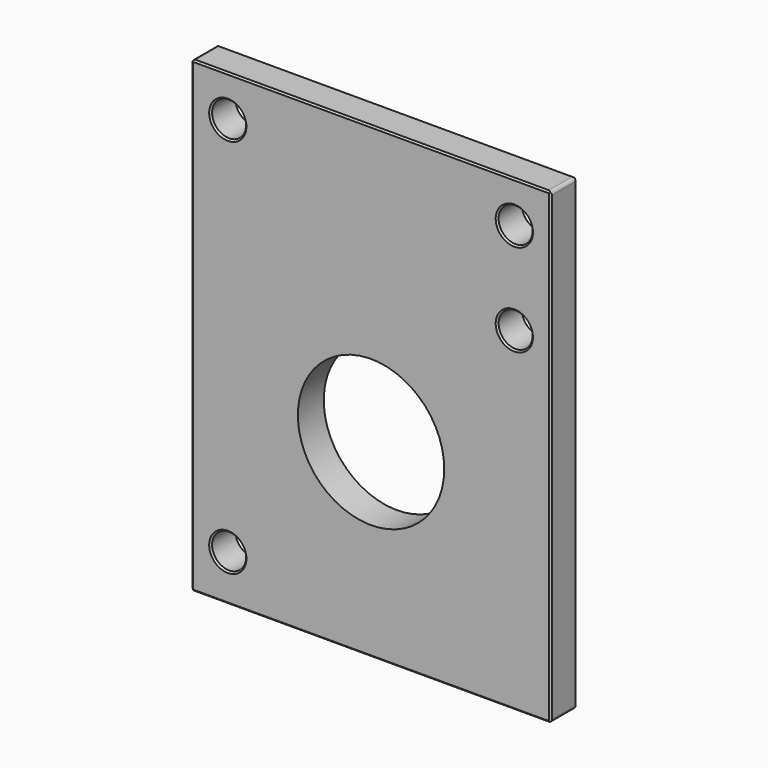
from build123d import *

# Parameters (mm, degrees)
F0_W     = 111
F0_H     = 144.5
F0_R     = 5.25
F0_R_2   = 22.604298
F1_DEPTH = 10
F2_SIZE  = 0.5
F3_R     = 1
F4_SIZE  = 0.5


with BuildPart() as f1:
    # F0 (on Front) → F1 (new body)
    with BuildSketch(Plane.XZ):
        Rectangle(F0_W, F0_H)
        with Locations((-44.25, -58)):
            Circle(F0_R, mode=Mode.SUBTRACT)
        with Locations((0, -13.75)):
            Circle(F0_R_2, mode=Mode.SUBTRACT)
        with Locations((-44.25, 59.5)):
            Circle(F0_R, mode=Mode.SUBTRACT)
        with Locations((44.25, 31)):
            Circle(F0_R, mode=Mode.SUBTRACT)
        with Locations((44.25, 59.5)):
            Circle(F0_R, mode=Mode.SUBTRACT)
    extrude(amount=F1_DEPTH)

    # F2
    f2_edges = [f1.edges().sort_by_distance(p)[0] for p in [
        (0, -10, -72.25),
        (-55.5, -10, 0),
        (0, -10, 72.25),
        (55.5, -10, 0),
        (0, 0, -72.25),
        (55.5, 0, 0),
        (-55.5, 0, 0),
        (0, 0, 72.25),
    ]]
    chamfer(f2_edges, length=F2_SIZE)

    # F3
    f3_edges = [f1.edges().sort_by_distance(p)[0] for p in [
        (55.5, -5, 72.25),
        (55.5, -5, -72.25),
        (-55.5, -5, -72.25),
        (-55.5, -5, 72.25),
    ]]
    fillet(f3_edges, radius=F3_R)

    # F4
    f4_edges = [f1.edges().sort_by_distance(p)[0] for p in [
        (-49.5, 0, 59.5),
        (39, 0, 59.5),
        (39, 0, 31),
        (-49.5, 0, -58),
        (-49.5, -10, 59.5),
        (-49.5, -10, -58),
        (39, -10, 31),
        (39, -10, 59.5),
    ]]
    chamfer(f4_edges, length=F4_SIZE)


solid = f1.part
